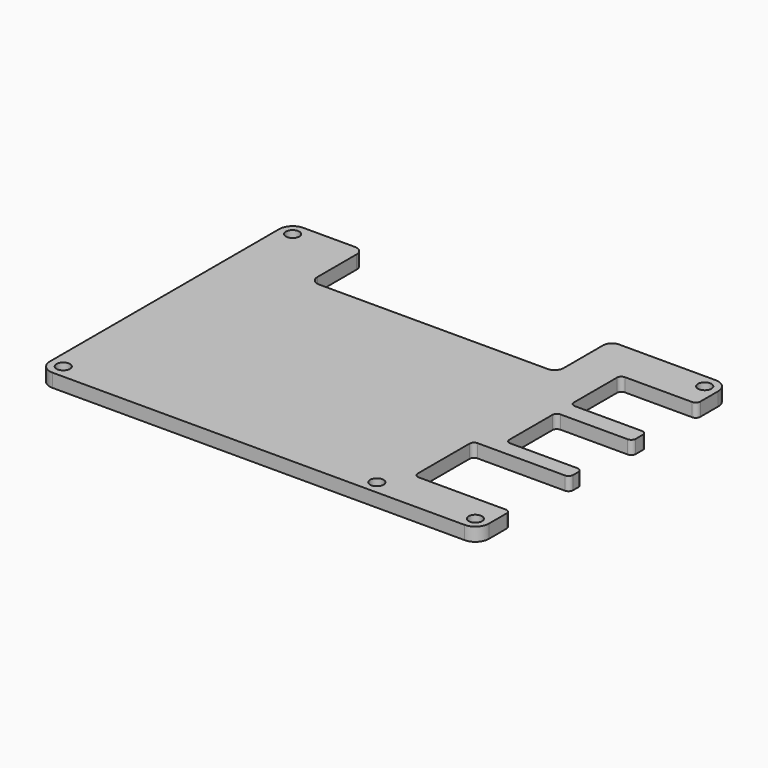
from build123d import *

# Parameters (mm, degrees)
F0_R     = 1.5
F1_DEPTH = 3


with BuildPart() as f1:
    # F0 (on Top) → F1 (new body)
    with BuildSketch(Plane.XY):
        with BuildLine():
            ThreePointArc((0, 3), (0.87868, 0.87868), (3, 0))
            Line((3, 0), (95, 0))
            ThreePointArc((95, 0), (97.12132, 0.87868), (98, 3))
            Line((98, 3), (98, 8))
            ThreePointArc((98, 8), (97.707107, 8.707107), (97, 9))
            Line((97, 9), (77.5, 9))
            ThreePointArc((77.5, 9), (76.792893, 9.292893), (76.5, 10))
            Line((76.5, 10), (76.5, 24.5))
            ThreePointArc((76.5, 24.5), (76.792893, 25.207107), (77.5, 25.5))
            Line((77.5, 25.5), (97, 25.5))
            ThreePointArc((97, 25.5), (97.707107, 25.792893), (98, 26.5))
            Line((98, 26.5), (98, 28))
            ThreePointArc((98, 28), (97.707107, 28.707107), (97, 29))
            Line((97, 29), (82, 29))
            ThreePointArc((82, 29), (81.292893, 29.292893), (81, 30))
            Line((81, 30), (81, 42))
            ThreePointArc((81, 42), (81.292893, 42.707107), (82, 43))
            Line((82, 43), (97, 43))
            ThreePointArc((97, 43), (97.707107, 43.292893), (98, 44))
            Line((98, 44), (98, 46))
            ThreePointArc((98, 46), (97.707107, 46.707107), (97, 47))
            Line((97, 47), (82, 47))
            ThreePointArc((82, 47), (81.292893, 47.292893), (81, 48))
            Line((81, 48), (81, 60))
            ThreePointArc((81, 60), (81.292893, 60.707107), (82, 61))
            Line((82, 61), (97, 61))
            ThreePointArc((97, 61), (97.707107, 61.292893), (98, 62))
            Line((98, 62), (98, 67))
            ThreePointArc((98, 67), (97.12132, 69.12132), (95, 70))
            Line((95, 70), (73.5, 70))
            ThreePointArc((73.5, 70), (72.085786, 69.414214), (71.5, 68))
            Line((71.5, 68), (71.5, 57))
            ThreePointArc((71.5, 57), (70.914214, 55.585786), (69.5, 55))
            Line((69.5, 55), (18.5, 55))
            ThreePointArc((18.5, 55), (17.085786, 55.585786), (16.5, 57))
            Line((16.5, 57), (16.5, 68))
            ThreePointArc((16.5, 68), (15.914214, 69.414214), (14.5, 70))
            Line((14.5, 70), (3, 70))
            ThreePointArc((3, 70), (0.87868, 69.12132), (0, 67))
            Line((0, 67), (0, 3))
        make_face()
        with Locations((3, 3)):
            Circle(F0_R, mode=Mode.SUBTRACT)
        with Locations((73, 3)):
            Circle(F0_R, mode=Mode.SUBTRACT)
        with Locations((95, 3)):
            Circle(F0_R, mode=Mode.SUBTRACT)
        with Locations((3, 67)):
            Circle(F0_R, mode=Mode.SUBTRACT)
        with Locations((95, 67)):
            Circle(F0_R, mode=Mode.SUBTRACT)
    extrude(amount=F1_DEPTH)


solid = f1.part
